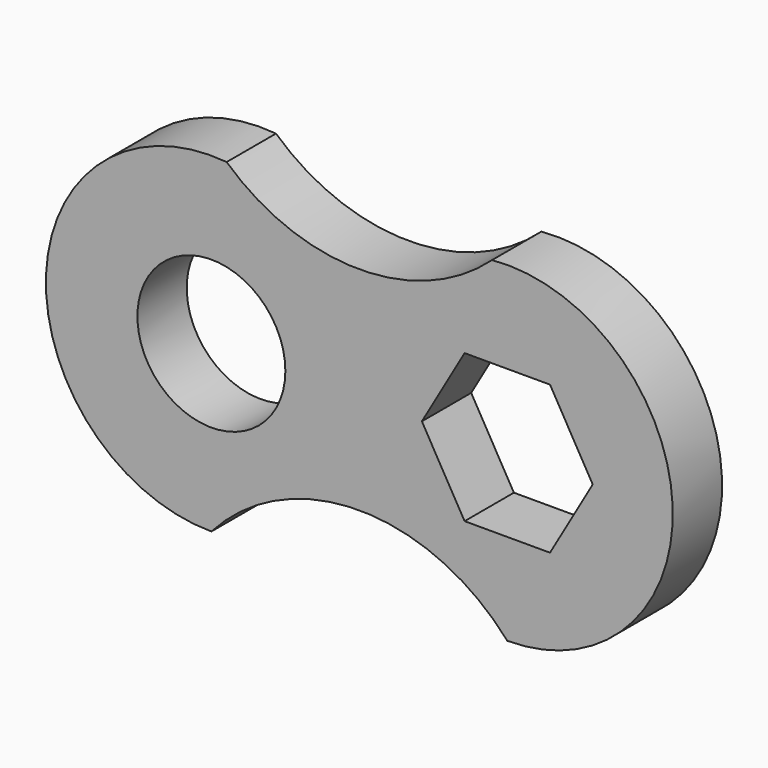
from build123d import *

# Parameters (mm, degrees)
F0_R     = 30
F1_DEPTH = 25


with BuildPart() as f1:
    # F0 (on Front) → F1 (new body)
    with BuildSketch(Plane.XZ):
        with BuildLine():
            ThreePointArc((113.805632, 66.8157), (60, 46.018352), (6.194368, 66.8157))
            ThreePointArc((6.194368, 66.8157), (-67.030552, 3.100496), (0, -67.10222))
            ThreePointArc((0, -67.10222), (60, -40.017246), (120, -67.10222))
            ThreePointArc((120, -67.10222), (187.030552, 3.100496), (113.805632, 66.8157))
        make_face()
        Polygon((137.320508, 29.989339), (154.641016, -0.010661), (137.320508, -30.010661), (102.679491, -30.010661), (85.358983, -0.010661), (85.36076, -0.007583), (102.679491, 29.989339), align=None, mode=Mode.SUBTRACT)
        Circle(F0_R, mode=Mode.SUBTRACT)
    extrude(amount=F1_DEPTH)


solid = f1.part
